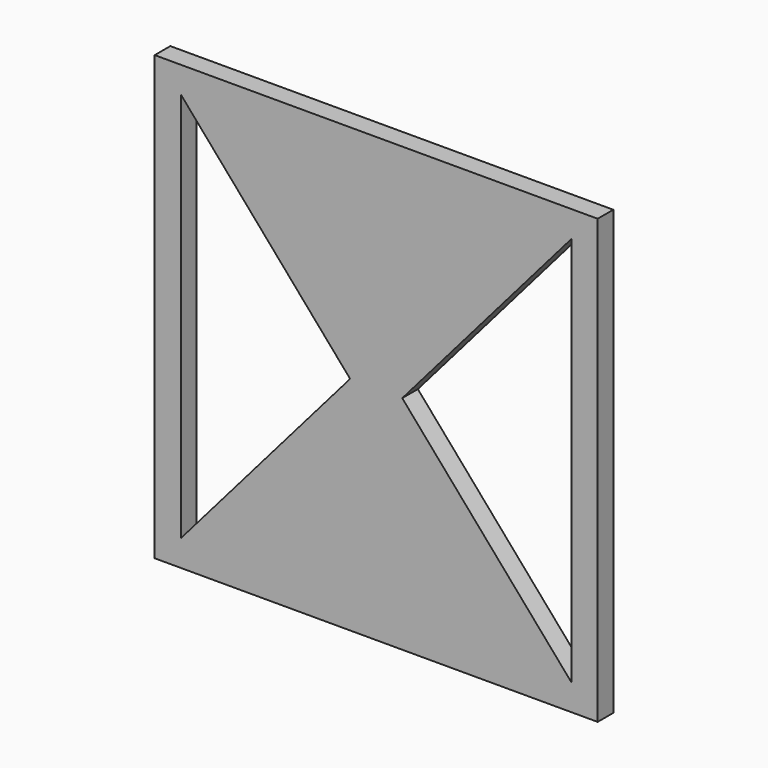
from build123d import *

# Parameters (mm, degrees)
F0_W     = 431.8
F0_H     = 431.8
F1_DEPTH = 19.05
F3_DEPTH = 19.051


with BuildPart() as f1:
    # F0 (on Front) → F1 (new body)
    with BuildSketch(Plane.XZ):
        with Locations((215.9, 215.9)):
            Rectangle(F0_W, F0_H)
    extrude(amount=F1_DEPTH)

    # F2 (on face) → F3 (cut, through all)
    with BuildSketch(Plane.XZ.offset(19.05)):
        Polygon((190.5, 215.9), (25.4, 406.4), (25.4, 25.4), align=None)
        Polygon((406.4, 406.4), (241.3, 215.9), (406.4, 25.4), align=None)
    extrude(amount=-F3_DEPTH, mode=Mode.SUBTRACT)


solid = f1.part
